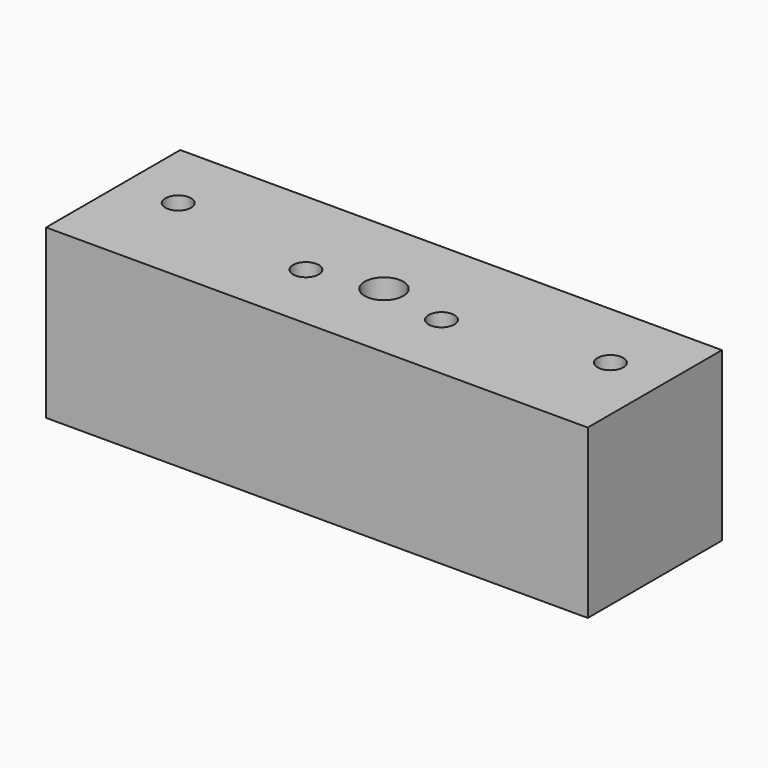
from build123d import *

# Parameters (mm, degrees)
F0_W     = 42
F0_H     = 13
F1_DEPTH = 13
F2_R     = 1
F3_DEPTH = 12
F4_R     = 1.5
F5_DEPTH = 13.001


with BuildPart() as f1:
    # F0 (on Top) → F1 (new body)
    with BuildSketch(Plane.XY):
        Rectangle(F0_W, F0_H)
    extrude(amount=F1_DEPTH)

    # F2 (on face) → F3 (cut)
    with BuildSketch(Plane.XY.offset(13)):
        with Locations((-16.753747, 1)):
            Circle(F2_R)
        with Locations((-5.253747, -1)):
            Circle(F2_R)
        with Locations((5.253747, -1)):
            Circle(F2_R)
        with Locations((16.753747, 1)):
            Circle(F2_R)
    extrude(amount=-F3_DEPTH, mode=Mode.SUBTRACT)

    # F4 (on face) → F5 (cut, through all)
    with BuildSketch(Plane.XY.offset(13)):
        Circle(F4_R)
    extrude(amount=-F5_DEPTH, mode=Mode.SUBTRACT)


solid = f1.part
